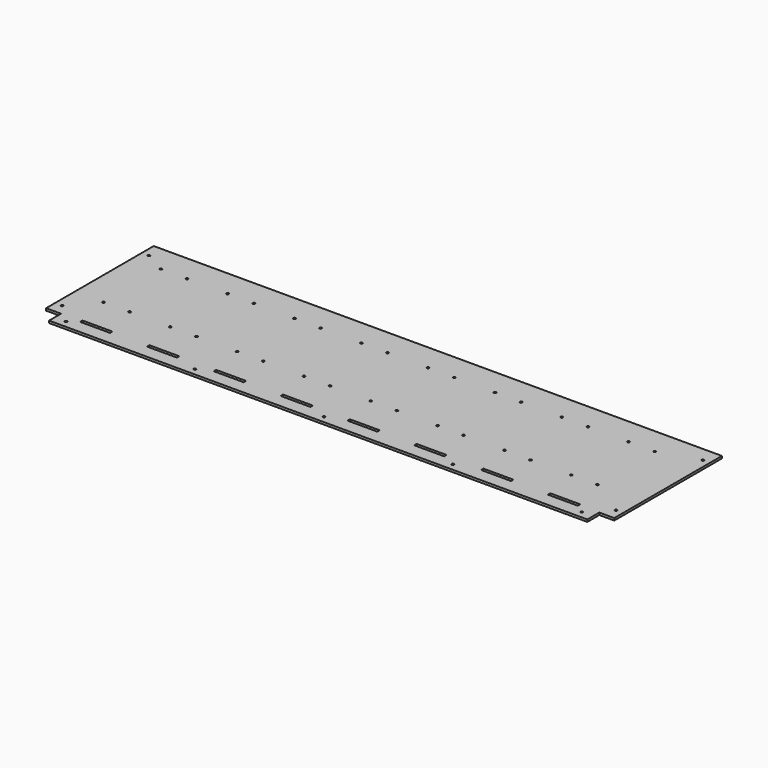
from build123d import *

# Parameters (mm, degrees)
F0_W      = 760
F0_H      = 360
F1_DEPTH  = 1.5
F2_W      = 20
F2_H      = 20
F3_DEPTH  = 3.001
F4_R      = 1.55
F5_DEPTH  = 3.001
F6_W      = 50
F6_H      = 20
F7_DEPTH  = 3.001
F8_R      = 1.55
F9_DEPTH  = 3.001
F10_W     = 40
F10_H     = 4
F11_DEPTH = 3.001
F12_W     = 760
F12_H     = 160
F13_DEPTH = 3.001


with BuildPart() as f1:
    # F0 (on Top) → F1 (new body, symmetric)
    with BuildSketch(Plane.XY):
        Rectangle(F0_W, F0_H)
    extrude(amount=F1_DEPTH, both=True)

    # F2 (on face) → F3 (cut, through all)
    with BuildSketch(Plane.XY.offset(1.5)):
        with Locations((-370, -170)):
            Rectangle(F2_W, F2_H)
        with Locations((-370, 170)):
            Rectangle(F2_W, F2_H)
        with Locations((370, -170)):
            Rectangle(F2_W, F2_H)
        with Locations((370, 170)):
            Rectangle(F2_W, F2_H)
    extrude(amount=-F3_DEPTH, mode=Mode.SUBTRACT)

    # F4 (on face) → F5 (cut, through all)
    with BuildSketch(Plane.XY.offset(1.5)):
        with Locations((-370.5, 145)):
            Circle(F4_R)
        with Locations((-370.5, 0)):
            Circle(F4_R)
        with Locations((-370.5, -145)):
            Circle(F4_R)
        with Locations((370.5, -145)):
            Circle(F4_R)
        with Locations((370.5, 0)):
            Circle(F4_R)
        with Locations((370.5, 145)):
            Circle(F4_R)
        with Locations((0, 170.5)):
            Circle(F4_R)
        with Locations((172.5, 170.5)):
            Circle(F4_R)
        with Locations((345, 170.5)):
            Circle(F4_R)
        with Locations((-172.5, 170.5)):
            Circle(F4_R)
        with Locations((-345, 170.5)):
            Circle(F4_R)
        with Locations((-345, -170.5)):
            Circle(F4_R)
        with Locations((-172.5, -170.5)):
            Circle(F4_R)
        with Locations((0, -170.5)):
            Circle(F4_R)
        with Locations((172.5, -170.5)):
            Circle(F4_R)
        with Locations((345, -170.5)):
            Circle(F4_R)
    extrude(amount=-F5_DEPTH, mode=Mode.SUBTRACT)

    # F6 (on face) → F7 (cut, through all)
    with BuildSketch(Plane.XY.offset(1.5)):
        with Locations((-234.763, 110)):
            Rectangle(F6_W, F6_H)
        with Locations((-143.659, 110)):
            Rectangle(F6_W, F6_H)
        with Locations((-52.555, 110)):
            Rectangle(F6_W, F6_H)
        with Locations((125, 110)):
            Rectangle(F6_W, F6_H)
        with Locations((225, 110)):
            Rectangle(F6_W, F6_H)
        with Locations((325, 110)):
            Rectangle(F6_W, F6_H)
        with Locations((20, 110)):
            Rectangle(F6_W, F6_H)
        with Locations((-325.867, 110)):
            Rectangle(F6_W, F6_H)
    extrude(amount=-F7_DEPTH, mode=Mode.SUBTRACT)

    # F8 (on face) → F9 (cut, through all)
    with BuildSketch(Plane.XY.offset(1.5)):
        with Locations((-341.6325, -16)):
            Circle(F8_R)
        with Locations((-306.6325, -16)):
            Circle(F8_R)
        with Locations((-341.6325, -112)):
            Circle(F8_R)
        with Locations((-306.6325, -112)):
            Circle(F8_R)
        with Locations((-252.263, -112)):
            Circle(F8_R)
        with Locations((-217.263, -112)):
            Circle(F8_R)
        with Locations((-252.263, -16)):
            Circle(F8_R)
        with Locations((-217.263, -16)):
            Circle(F8_R)
        with Locations((-162.893, -16)):
            Circle(F8_R)
        with Locations((-127.893, -16)):
            Circle(F8_R)
        with Locations((-162.893, -112)):
            Circle(F8_R)
        with Locations((-127.893, -112)):
            Circle(F8_R)
        with Locations((-73.523, -112)):
            Circle(F8_R)
        with Locations((-38.523, -112)):
            Circle(F8_R)
        with Locations((-73.523, -16)):
            Circle(F8_R)
        with Locations((-38.523, -16)):
            Circle(F8_R)
        with Locations((15.847, -16)):
            Circle(F8_R)
        with Locations((50.847, -16)):
            Circle(F8_R)
        with Locations((15.847, -112)):
            Circle(F8_R)
        with Locations((50.847, -112)):
            Circle(F8_R)
        with Locations((105.217, -112)):
            Circle(F8_R)
        with Locations((140.217, -112)):
            Circle(F8_R)
        with Locations((105.217, -16)):
            Circle(F8_R)
        with Locations((140.217, -16)):
            Circle(F8_R)
        with Locations((194.587, -16)):
            Circle(F8_R)
        with Locations((229.587, -16)):
            Circle(F8_R)
        with Locations((194.587, -112)):
            Circle(F8_R)
        with Locations((229.587, -112)):
            Circle(F8_R)
        with Locations((283.957, -112)):
            Circle(F8_R)
        with Locations((318.957, -112)):
            Circle(F8_R)
        with Locations((283.957, -16)):
            Circle(F8_R)
        with Locations((318.957, -16)):
            Circle(F8_R)
    extrude(amount=-F9_DEPTH, mode=Mode.SUBTRACT)

    # F10 (on face) → F11 (cut, through all)
    with BuildSketch(Plane.XY.offset(1.5)):
        with Locations((-312.825, -160)):
            Rectangle(F10_W, F10_H)
        with Locations((-223.455, -160)):
            Rectangle(F10_W, F10_H)
        with Locations((-134.085, -160)):
            Rectangle(F10_W, F10_H)
        with Locations((-44.715, -160)):
            Rectangle(F10_W, F10_H)
        with Locations((44.655, -160)):
            Rectangle(F10_W, F10_H)
        with Locations((134.025, -160)):
            Rectangle(F10_W, F10_H)
        with Locations((223.395, -160)):
            Rectangle(F10_W, F10_H)
        with Locations((312.765, -160)):
            Rectangle(F10_W, F10_H)
    extrude(amount=-F11_DEPTH, mode=Mode.SUBTRACT)

    # F12 (on face) → F13 (cut, through all)
    with BuildSketch(Plane.XY.offset(1.5)):
        with Locations((0, 100)):
            Rectangle(F12_W, F12_H)
    extrude(amount=-F13_DEPTH, mode=Mode.SUBTRACT)


solid = f1.part
